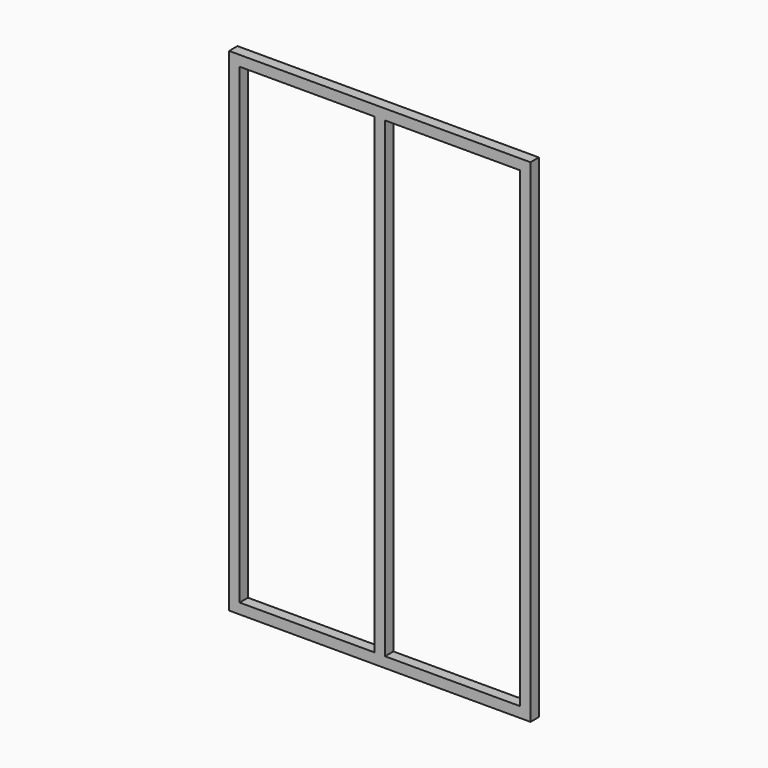
from build123d import *

# Parameters (mm, degrees)
F0_W     = 1150
F0_H     = 1880
F0_W_2   = 515
F0_H_2   = 1800
F1_DEPTH = 20


with BuildPart() as f1:
    # F0 (on Front) → F1 (new body, symmetric)
    with BuildSketch(Plane.XZ):
        Rectangle(F0_W, F0_H)
        with Locations((-277.5, 0)):
            Rectangle(F0_W_2, F0_H_2, mode=Mode.SUBTRACT)
        with Locations((277.5, 0)):
            Rectangle(F0_W_2, F0_H_2, mode=Mode.SUBTRACT)
    extrude(amount=F1_DEPTH, both=True)


solid = f1.part
